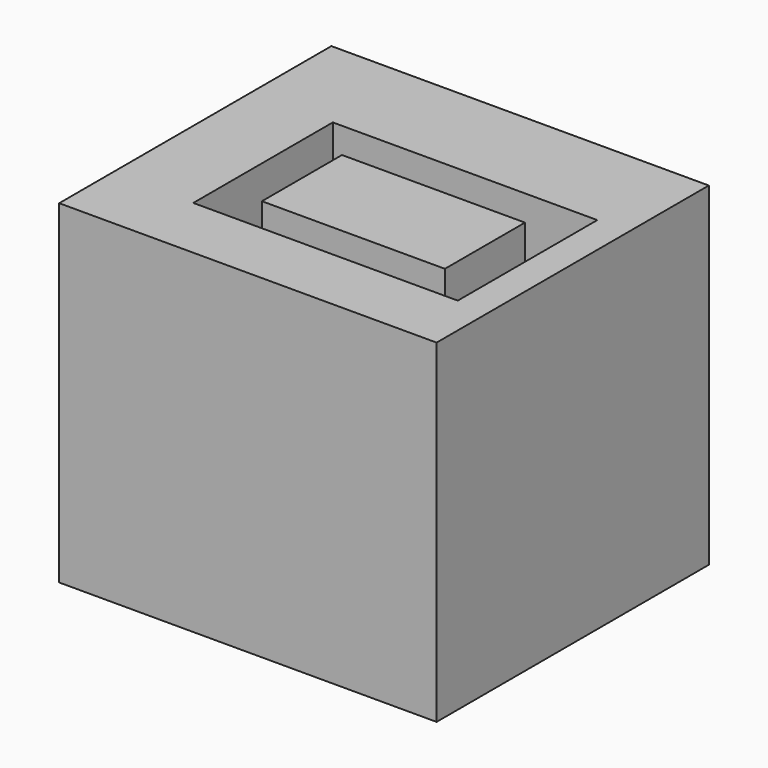
from build123d import *

# Parameters (mm, degrees)
F0_W     = 73.462898
F0_H     = 66.227919
F1_DEPTH = 65
F2_W     = 51.479684
F2_H     = 33.948764
F2_W_2   = 35.618376
F2_H_2   = 19.4788
F3_DEPTH = 25


with BuildPart() as f1:
    # F0 (on Top) → F1 (new body)
    with BuildSketch(Plane.XY):
        with Locations((13.078622, -6.121908)):
            Rectangle(F0_W, F0_H)
    extrude(amount=F1_DEPTH)

    # F2 (on face) → F3 (cut)
    with BuildSketch(Plane.XY.offset(65)):
        with Locations((17.948321, -9.461131)):
            Rectangle(F2_W, F2_H)
        with Locations((17.809188, -9.7394)):
            Rectangle(F2_W_2, F2_H_2, mode=Mode.SUBTRACT)
    extrude(amount=-F3_DEPTH, mode=Mode.SUBTRACT)


solid = f1.part
